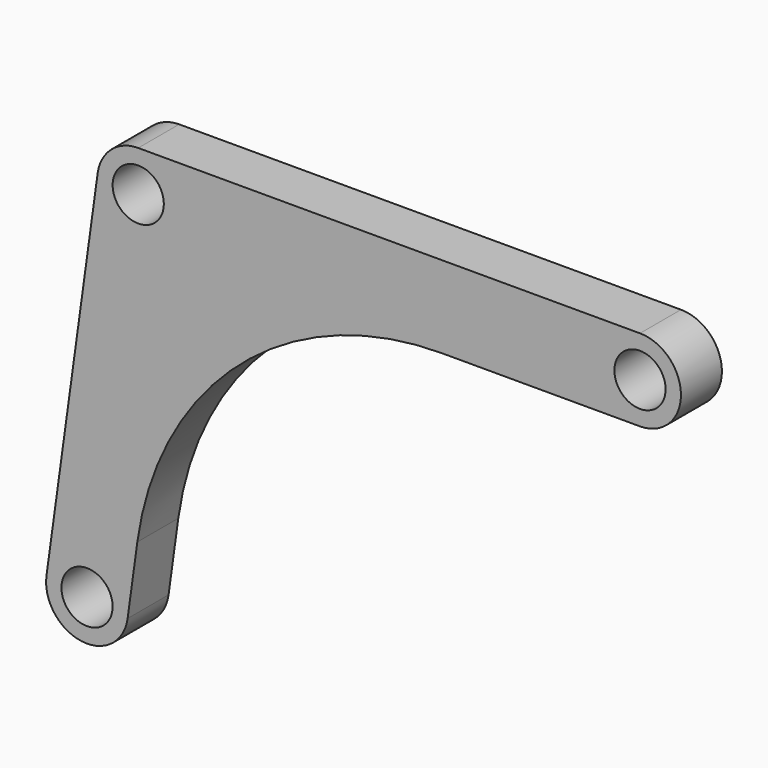
from build123d import *

# Parameters (mm, degrees)
F0_R     = 2.5
F1_DEPTH = 5


with BuildPart() as f1:
    # F0 (on Front) → F1 (new body)
    with BuildSketch(Plane.XZ):
        with BuildLine():
            Line((49, 4), (0, 4))
            ThreePointArc((0, 4), (-2.628042, 3.015526), (-3.962464, 0.546698))
            Line((-3.962464, 0.546698), (-8.962464, -35.693302))
            ThreePointArc((-8.962464, -35.693302), (-5.546698, -40.202464), (-1.037536, -36.786698))
            Line((-1.037536, -36.786698), (-0.087352, -29.899768))
            ThreePointArc((-0.087352, -29.899768), (9.920813, -11.383557), (29.631128, -4))
            Line((29.631128, -4), (49, -4))
            ThreePointArc((49, -4), (53, 0), (49, 4))
        make_face()
        with Locations((-5, -36.24)):
            Circle(F0_R, mode=Mode.SUBTRACT)
        Circle(F0_R, mode=Mode.SUBTRACT)
        with Locations((49, 0)):
            Circle(F0_R, mode=Mode.SUBTRACT)
    extrude(amount=F1_DEPTH)


solid = f1.part
